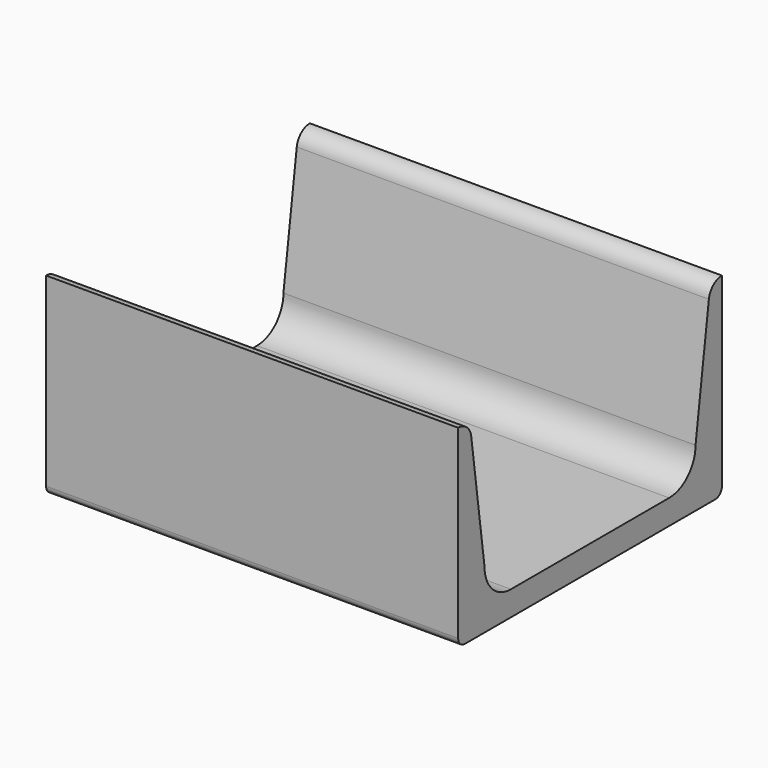
from build123d import *

# Parameters (mm, degrees)
F1_DEPTH = 100


with BuildPart() as f1:
    # F0 (on Right) → F1 (new body)
    with BuildSketch(Plane.YZ):
        with BuildLine():
            ThreePointArc((-40, -20.5), (-39.414214, -21.914214), (-38, -22.5))
            Line((-38, -22.5), (38, -22.5))
            ThreePointArc((38, -22.5), (39.414214, -21.914214), (40, -20.5))
            Line((40, -20.5), (40, 24.5))
            ThreePointArc((40, 24.5), (37.370005, 23.513823), (36.036831, 21.041564))
            Line((36.036831, 21.041564), (32, -8.5))
            ThreePointArc((32, -8.5), (29.656854, -14.156854), (24, -16.5))
            Line((24, -16.5), (-24, -16.5))
            ThreePointArc((-24, -16.5), (-29.656854, -14.156854), (-32, -8.5))
            Line((-32, -8.5), (-36.036831, 21.041564))
            ThreePointArc((-36.036831, 21.041564), (-37.370005, 23.513823), (-40, 24.5))
            Line((-40, 24.5), (-40, 20.5))
            Line((-40, 20.5), (-40, 16.5))
            Line((-40, 16.5), (-40, -20.5))
        make_face()
    extrude(amount=F1_DEPTH)


solid = f1.part
